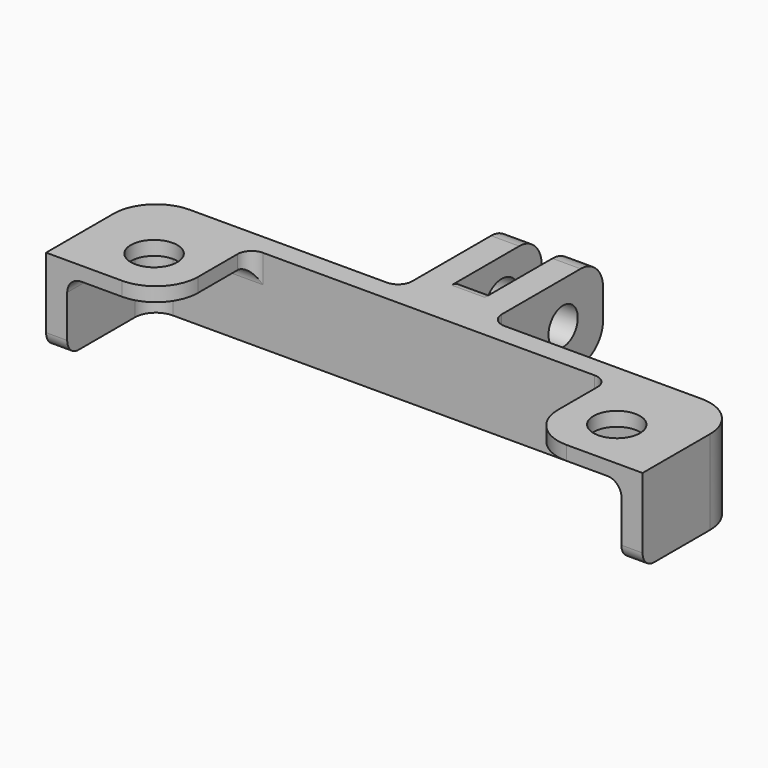
from build123d import *

# Parameters (mm, degrees)
F0_R     = 1.65
F1_DEPTH = 6
F2_DEPTH = 5
F4_R     = 2
F3_R     = 1.3
F5_DEPTH = 7
F3_R_2   = 1.55
F6_DEPTH = 3
F7_R     = 1


with BuildPart() as f1:
    # F0 (on Top) → F1 (new body)
    with BuildSketch(Plane.XY):
        with BuildLine():
            Line((1.18, 0), (0, 0))
            Line((0, 0), (-1.18, 0))
            Line((-1.18, 0), (-1.18, 7))
            Line((-1.18, 7), (-3.18, 7))
            Line((-3.18, 7), (-3.18, 0))
            Line((-3.18, 0), (-3.18, -3))
            Line((-3.18, -3), (-18.18, -3))
            ThreePointArc((-18.18, -3), (-20.3013203436, -3.8786796564), (-21.18, -6))
            Line((-21.18, -6), (-21.18, -12))
            Line((-21.18, -12), (-19.68, -12))
            Line((-19.68, -12), (-19.68, -6))
            ThreePointArc((-19.68, -6), (-19.2406601718, -4.9393398282), (-18.18, -4.5))
            Line((-18.18, -4.5), (-12.78, -4.5))
            Line((-12.78, -4.5), (0, -4.5))
            Line((0, -4.5), (12.78, -4.5))
            Line((12.78, -4.5), (18.18, -4.5))
            ThreePointArc((18.18, -4.5), (19.2406601718, -4.9393398282), (19.68, -6))
            Line((19.68, -6), (19.68, -12))
            Line((19.68, -12), (21.18, -12))
            Line((21.18, -12), (21.18, -6))
            ThreePointArc((21.18, -6), (20.3013203436, -3.8786796564), (18.18, -3))
            Line((18.18, -3), (3.18, -3))
            Line((3.18, -3), (3.18, 0))
            Line((3.18, 0), (3.18, 7))
            Line((3.18, 7), (1.18, 7))
            Line((1.18, 7), (1.18, 0))
        make_face()
        with BuildLine():
            Line((15.78, -12), (19.68, -12))
            Line((19.68, -12), (19.68, -6))
            ThreePointArc((19.68, -6), (19.2406601718, -4.9393398282), (18.18, -4.5))
            Line((18.18, -4.5), (12.78, -4.5))
            Line((12.78, -4.5), (12.78, -9))
            ThreePointArc((12.78, -9), (13.6586796564, -11.1213203436), (15.78, -12))
        make_face()
        with Locations((16.43, -8.35)):
            Circle(F0_R, mode=Mode.SUBTRACT)
        with BuildLine():
            Line((-19.68, -6), (-19.68, -12))
            Line((-19.68, -12), (-15.78, -12))
            ThreePointArc((-15.78, -12), (-13.6586796564, -11.1213203436), (-12.78, -9))
            Line((-12.78, -9), (-12.78, -4.5))
            Line((-12.78, -4.5), (-18.18, -4.5))
            ThreePointArc((-18.18, -4.5), (-19.2406601718, -4.9393398282), (-19.68, -6))
        make_face()
        with Locations((-16.43, -8.35)):
            Circle(F0_R, mode=Mode.SUBTRACT)
    extrude(amount=F1_DEPTH)

    # F0 (on Top) → F2 (cut)
    with BuildSketch(Plane.XY):
        with BuildLine():
            Line((-19.68, -6), (-19.68, -12))
            Line((-19.68, -12), (-15.78, -12))
            ThreePointArc((-15.78, -12), (-13.6586796564, -11.1213203436), (-12.78, -9))
            Line((-12.78, -9), (-12.78, -4.5))
            Line((-12.78, -4.5), (-18.18, -4.5))
            ThreePointArc((-18.18, -4.5), (-19.2406601718, -4.9393398282), (-19.68, -6))
        make_face()
        with Locations((-16.43, -8.35)):
            Circle(F0_R, mode=Mode.SUBTRACT)
        with BuildLine():
            Line((15.78, -12), (19.68, -12))
            Line((19.68, -12), (19.68, -6))
            ThreePointArc((19.68, -6), (19.2406601718, -4.9393398282), (18.18, -4.5))
            Line((18.18, -4.5), (12.78, -4.5))
            Line((12.78, -4.5), (12.78, -9))
            ThreePointArc((12.78, -9), (13.6586796564, -11.1213203436), (15.78, -12))
        make_face()
        with Locations((16.43, -8.35)):
            Circle(F0_R, mode=Mode.SUBTRACT)
    extrude(amount=F2_DEPTH, mode=Mode.SUBTRACT)

    # F4
    f4_edges = [f1.edges().sort_by_distance(p)[0] for p in [
        (-2.18, 7, 6),
        (2.18, 7, 6),
        (2.18, 7, 0),
        (-2.18, 7, 0),
    ]]
    fillet(f4_edges, radius=F4_R)

    # F3 (on face) → F5 (cut)
    with BuildSketch(Plane(origin=(-3.18, 0, 0), x_dir=(0, -1, 0), z_dir=(-1, 0, 0))):
        with Locations((-3.45, 3.0407507438)):
            Circle(F3_R)
    extrude(amount=-F5_DEPTH, mode=Mode.SUBTRACT)

    # F3 (on face) → F6 (cut)
    with BuildSketch(Plane(origin=(-3.18, 0, 0), x_dir=(0, -1, 0), z_dir=(-1, 0, 0))):
        with Locations((-3.45, 3.0407507438)):
            Circle(F3_R_2)
        with Locations((-3.45, 3.0407507438)):
            Circle(F3_R, mode=Mode.SUBTRACT)
    extrude(amount=-F6_DEPTH, mode=Mode.SUBTRACT)

    # F7
    f7_edges = [f1.edges().sort_by_distance(p)[0] for p in [
        (-19.68, -9, 5),
        (15.48, -4.5, 5),
        (12.78, -4.5, 5.5),
        (-12.78, -4.5, 5.5),
        (-20.43, -12, 0),
        (20.43, -12, 0),
        (3.18, -3, 3),
        (-3.18, -3, 3),
        (0, 0, 6),
        (0, 0, 0),
    ]]
    fillet(f7_edges, radius=F7_R)


solid = f1.part
